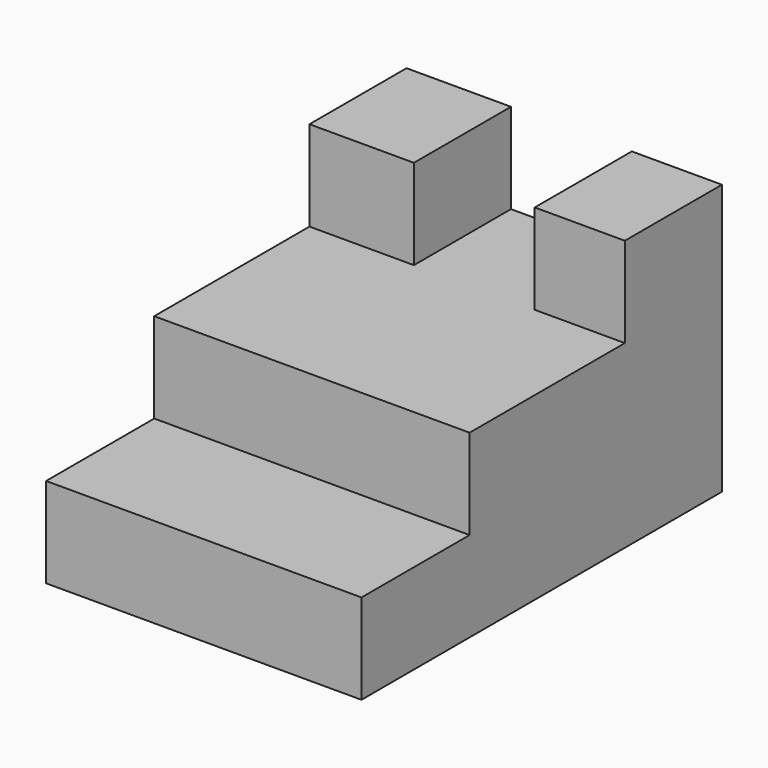
from build123d import *

# Parameters (mm, degrees)
F1_DEPTH = 88.9
F2_W     = 25.4
F2_H     = 34.202967
F2_W_2   = 29.441094
F3_DEPTH = 25.4


with BuildPart() as f1:
    # F0 (on Right) → F1 (new body)
    with BuildSketch(Plane.YZ):
        Polygon((34.202967, 4.914364), (-54.697033, 4.914364), (-54.697033, -20.485636), (-92.797033, -20.485636), (-92.797033, -45.885636), (34.202967, -45.885636), align=None)
    extrude(amount=F1_DEPTH)

    # F2 (on face) → F3 (join)
    with BuildSketch(Plane.XY.offset(4.914364)):
        with Locations((76.2, 17.101484)):
            Rectangle(F2_W, F2_H)
        with Locations((14.720547, 17.101484)):
            Rectangle(F2_W_2, F2_H)
    extrude(amount=F3_DEPTH)


solid = f1.part
